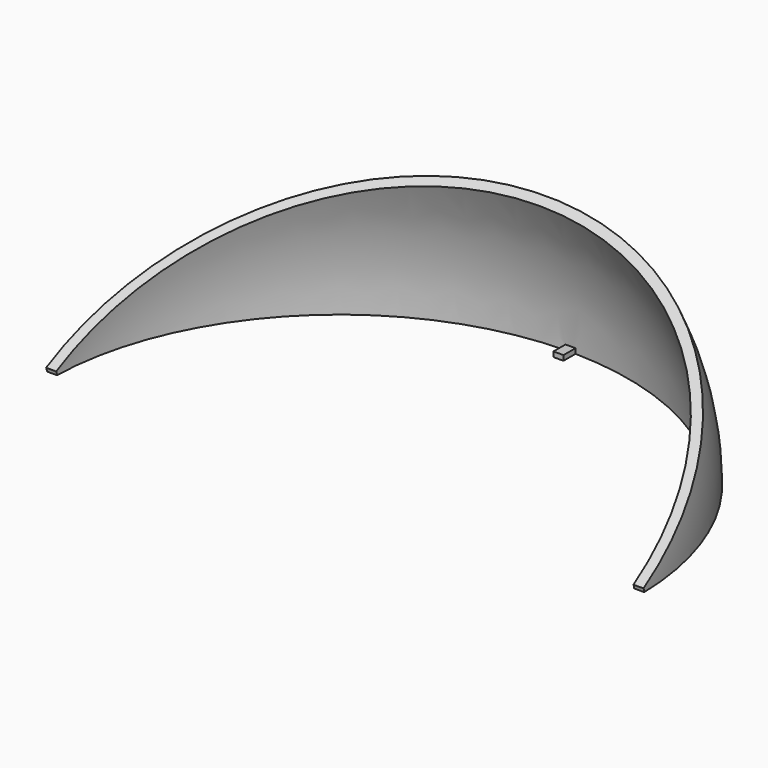
from build123d import *

# Parameters (mm, degrees)
F1_ANGLE      = 30
F2_R          = 3.81
F3_DEPTH      = 151.131
F3_DEPTH_BACK = 151.131
F4_W          = 5.08
F4_H          = 20.3206839475
F5_DEPTH      = 2.54


with BuildPart() as f1:
    # F0 (on Top) → F1 (revolve)
    with BuildSketch(Plane.XY):
        with BuildLine():
            Line((-151.13, 0), (-146.05, 0))
            ThreePointArc((-146.05, 0), (0, 146.05), (146.05, 0))
            Line((146.05, 0), (151.13, 0))
            ThreePointArc((151.13, 0), (0, 151.13), (-151.13, 0))
        make_face()
    revolve(axis=Axis((-73.025, 0, 0), (1, 0, 0)), revolution_arc=F1_ANGLE)

    # F2 (on Right) → F3 (cut, two sides)
    with BuildSketch(Plane.YZ) as f3_sk:
        Circle(F2_R)
    extrude(amount=-F3_DEPTH, mode=Mode.SUBTRACT)
    extrude(f3_sk.sketch, amount=F3_DEPTH_BACK, mode=Mode.SUBTRACT)

    # F4 (on Top) → F5 (join)
    with BuildSketch(Plane.XY):
        with Locations((0, 148.5682533469)):
            Rectangle(F4_W, F4_H)
    extrude(amount=F5_DEPTH)


solid = f1.part
